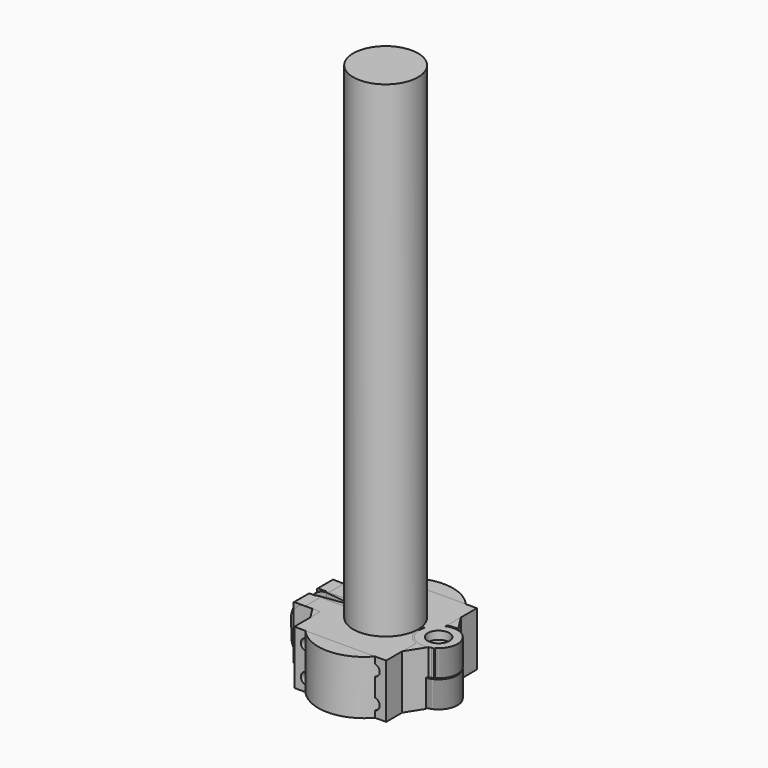
from build123d import *

# Parameters (mm, degrees)
CYLINDER010_R            = 7.6
CYLINDER010_DEPTH        = 10.2
CYLINDER007_R            = 4
CYLINDER007_DEPTH        = 20
CYLINDER006_R            = 1.8
CYLINDER006_DEPTH        = 20
CYLINDER001_R            = 4
CYLINDER001_DEPTH        = 20
CYLINDER_R               = 1.8
CYLINDER_DEPTH           = 20
PAD_DEPTH                = 20
PAD001_DEPTH             = 5
CYLINDER009_R            = 7
CYLINDER009_DEPTH        = 9.8
CYLINDER008_R            = 2.1
CYLINDER008_DEPTH        = 20
CYLINDER002_R            = 2.1
CYLINDER002_DEPTH        = 20
CYLINDER011_R            = 12
CYLINDER011_DEPTH        = 200
CYLINDER017_R            = 7.6
CYLINDER017_DEPTH        = 10.2
CYLINDER016_R            = 2.1
CYLINDER016_DEPTH        = 20
CYLINDER015_R            = 2.1
CYLINDER015_DEPTH        = 20
CYLINDER014_R            = 7
CYLINDER014_DEPTH        = 9.8
CYLINDER012_W            = 12
CYLINDER012_H            = 20
CYLINDER012_ANGLE        = 180
BOX_W                    = 100
BOX_H                    = 4
BOX_DEPTH                = 20
CYLINDER013_W            = 17
CYLINDER013_H            = 20
CYLINDER013_ANGLE        = 180
PAD002_DEPTH             = 9
CYLINDER020_R            = 7.6
CYLINDER020_DEPTH        = 10.2
CYLINDER022_R            = 4
CYLINDER022_DEPTH        = 20
CYLINDER021_R            = 1.8
CYLINDER021_DEPTH        = 20
CYLINDER019_R            = 4
CYLINDER019_DEPTH        = 20
CYLINDER018_R            = 1.8
CYLINDER018_DEPTH        = 20
CYLINDER026_R            = 7.6
CYLINDER026_DEPTH        = 10.2
CYLINDER027_R            = 2.1
CYLINDER027_DEPTH        = 20
CYLINDER023_R            = 2.1
CYLINDER023_DEPTH        = 20
CYLINDER028_R            = 7
CYLINDER028_DEPTH        = 9.8
CYLINDER024_W            = 12
CYLINDER024_H            = 20
CYLINDER024_ANGLE        = 180
CYLINDER029_R            = 2.1
CYLINDER029_DEPTH        = 8
ARRAY_X_COUNT            = 2
ARRAY_X_PITCH            = 25
ARRAY_Y_COUNT            = 2
ARRAY_Y_PITCH            = 11
ARRAY_PLACEMENT_ANGLE    = 90
BOX001_W                 = 100
BOX001_H                 = 4
BOX001_DEPTH             = 20
CYLINDER025_W            = 17
CYLINDER025_H            = 20
CYLINDER025_ANGLE        = 180
BOX002_W                 = 34
BOX002_H                 = 21
BOX002_DEPTH             = 20
PAD003_DEPTH             = 9
CYLINDER035_R            = 7.6
CYLINDER035_DEPTH        = 10.2
CYLINDER037_R            = 4
CYLINDER037_DEPTH        = 20
CYLINDER036_R            = 1.8
CYLINDER036_DEPTH        = 20
CYLINDER034_R            = 4
CYLINDER034_DEPTH        = 20
CYLINDER033_R            = 1.8
CYLINDER033_DEPTH        = 20
CYLINDER030_W            = 12
CYLINDER030_H            = 20
CYLINDER030_ANGLE        = 180
CYLINDER038_R            = 2.1
CYLINDER038_DEPTH        = 8
ARRAY001_X_COUNT         = 2
ARRAY001_X_PITCH         = 25
ARRAY001_Y_COUNT         = 2
ARRAY001_Y_PITCH         = 11
ARRAY001_PLACEMENT_ANGLE = 90
BOX003_W                 = 100
BOX003_H                 = 4
BOX003_DEPTH             = 20
CYLINDER031_W            = 17
CYLINDER031_H            = 20
CYLINDER031_ANGLE        = 180
BOX004_W                 = 34
BOX004_H                 = 21
BOX004_DEPTH             = 20
PAD004_DEPTH             = 9
CYLINDER032_R            = 7
CYLINDER032_DEPTH        = 9.8


with BuildPart() as horizontal_body_space:
    # Cylinder010 → Cylinder010 (new body)
    with BuildSketch(Plane(origin=(19.6, 0, 9.8), x_dir=(1, 0, 0), z_dir=(0, 0, 1))):
        Circle(CYLINDER010_R)
    extrude(amount=CYLINDER010_DEPTH)


with BuildPart() as part_mirroring002:
    # Part__Mirroring002: instance of horizontal body space
    add(horizontal_body_space.part.mirror(Plane(origin=(0, 0, 10), x_dir=(0, 1, 0), z_dir=(0, 0, 1))))


with BuildPart() as horizontal_bolt_head_hole:
    # Cylinder007 → Cylinder007 (new body)
    with BuildSketch(Plane.XY.offset(17)):
        Circle(CYLINDER007_R)
    extrude(amount=CYLINDER007_DEPTH)


with BuildPart() as horizontal_bolt_hole_fusion:
    # Cylinder006 → Cylinder006 (new body)
    with BuildSketch(Plane.XY):
        Circle(CYLINDER006_R)
    extrude(amount=CYLINDER006_DEPTH)

    # Fusion003: union horizontal bolt head hole
    add(horizontal_bolt_head_hole.part)


with BuildPart() as horizontal_bolt_hole_fusion_1:
    # Fusion003 placement: moved
    add(horizontal_bolt_hole_fusion.part.moved(Location((19.6, 0, 0))))


with BuildPart() as bolt_head_hole:
    # Cylinder001 → Cylinder001 (new body)
    with BuildSketch(Plane.XZ):
        Circle(CYLINDER001_R)
    extrude(amount=CYLINDER001_DEPTH)


with BuildPart() as fusion005:
    # Cylinder → Cylinder (new body)
    with BuildSketch(Plane.XZ.offset(-10)):
        Circle(CYLINDER_R)
    extrude(amount=CYLINDER_DEPTH)

    # Fusion: union bolt head hole
    add(bolt_head_hole.part)


with BuildPart() as fusion005_1:
    # Fusion placement: moved
    add(fusion005.part.moved(Location((-22, -5, 10))))

    # Fusion005: union Part__Mirroring002, horizontal bolt hole fusion
    add(part_mirroring002.part)
    add(horizontal_bolt_hole_fusion_1.part)


with BuildPart() as f_25_mm_attachment_body:
    # Sketch → Pad (new body)
    with BuildSketch(Plane.XY):
        with BuildLine():
            ThreePointArc((12, 0.0991288717), (0, 12.0991287584), (-12, 0.0991288717))
            Line((-23.1664914636, 1.4999812665), (-12, 0.0991288717))
            Line((-23.1664914636, 1.4999812665), (-23.1664914636, 6.4999999411))
            Line((-23.1664914636, 6.4999999411), (-21.5021965474, 6.4999999411))
            Line((-21.5021965474, 6.4999999411), (-16.3354691568, 14.6109278864))
            ThreePointArc((16.3354691568, 14.6109278864), (0, 26.9042892317), (-16.3354691568, 14.6109278864))
            Line((16.3354691568, 14.6109278864), (21.5021965474, 6.4999999411))
            Line((21.5021965474, 6.4999999411), (23.1664914636, 6.4999999411))
            Line((23.1664914636, 6.4999999411), (23.1664914636, 1.4999812665))
            Line((12, 0.0991288717), (23.1664914636, 1.4999812665))
        make_face()
    extrude(amount=PAD_DEPTH)

    # Sketch001 → Pad001 (join)
    with BuildSketch(Plane.XZ.offset(-1.5)):
        with BuildLine():
            Line((-13.241659036, 19.9999998322), (-23.331659036, 19.9994546363))
            ThreePointArc((-23.331659036, 19.9994546363), (-27.9361168106, 17.7657714559), (-29.8010034103, 13.0000008028))
            Line((-29.8010034103, 13.0000008028), (-29.700430835, 7.0000071698))
            ThreePointArc((-29.700430835, 7.0000071698), (-28.1980722924, 2.3110312669), (-23.8500523029, 0.0005554764))
            Line((-13.7600523034, -1.78e-07), (-23.8500523029, 0.0005554764))
            Line((-13.241659036, 19.9999998322), (-13.7600523034, -1.78e-07))
        make_face()
    extrude(amount=-PAD001_DEPTH)


with BuildPart() as part_mirroring:
    # Part__Mirroring: instance of 25 mm attachment body
    add(f_25_mm_attachment_body.part.mirror(Plane(origin=(0, 0, 0), x_dir=(1, 0, 0), z_dir=(0, 1, 0))))


with BuildPart() as horizontal_body:
    # Cylinder009 → Cylinder009 (new body)
    with BuildSketch(Plane(origin=(19.6, 0, 0), x_dir=(1, 0, 0), z_dir=(0, 0, 1))):
        Circle(CYLINDER009_R)
    extrude(amount=CYLINDER009_DEPTH)


with BuildPart() as f_35_mm_attachment_holed_cut:
    # Part__Mirroring001: instance of horizontal body
    add(horizontal_body.part.mirror(Plane(origin=(0, 0, 10), x_dir=(0, 1, 0), z_dir=(0, 0, 1))))

    # Fusion004: union Part__Mirroring
    add(part_mirroring.part)

    # Cut: cut Fusion005
    add(fusion005_1.part, mode=Mode.SUBTRACT)


with BuildPart() as horizontal_insert_hole:
    # Cylinder008 → Cylinder008 (new body)
    with BuildSketch(Plane(origin=(19.6, 0, 0), x_dir=(1, 0, 0), z_dir=(0, 0, 1))):
        Circle(CYLINDER008_R)
    extrude(amount=CYLINDER008_DEPTH)


with BuildPart() as f_25_mm_attachment_extract:
    # Cylinder002 → Cylinder002 (new body)
    with BuildSketch(Plane(origin=(-22, 20, 10), x_dir=(1, 0, 0), z_dir=(0, -1, 0))):
        Circle(CYLINDER002_R)
    extrude(amount=CYLINDER002_DEPTH)

    # Fusion007: union horizontal body space, horizontal insert hole
    add(horizontal_body_space.part)
    add(horizontal_insert_hole.part)


with BuildPart() as f_35_mm_attachment_inserted_cut:
    # Fusion006 base: copy of horizontal body
    add(horizontal_body.part)

    # Fusion006: union 25 mm attachment body
    add(f_25_mm_attachment_body.part)

    # Cut023015002: cut 25 mm attachment extract
    add(f_25_mm_attachment_extract.part, mode=Mode.SUBTRACT)


with BuildPart() as f_24mm_pipe_mockup:
    # Cylinder011 → Cylinder011 (new body)
    with BuildSketch(Plane.XY):
        Circle(CYLINDER011_R)
    extrude(amount=CYLINDER011_DEPTH)


with BuildPart() as horizontal_body_space001:
    # Cylinder017 → Cylinder017 (new body)
    with BuildSketch(Plane(origin=(19.6, 0, 9.8), x_dir=(1, 0, 0), z_dir=(0, 0, 1))):
        Circle(CYLINDER017_R)
    extrude(amount=CYLINDER017_DEPTH)


with BuildPart() as horizontal_insert_hole001:
    # Cylinder016 → Cylinder016 (new body)
    with BuildSketch(Plane(origin=(19.6, 0, 0), x_dir=(1, 0, 0), z_dir=(0, 0, 1))):
        Circle(CYLINDER016_R)
    extrude(amount=CYLINDER016_DEPTH)


with BuildPart() as f_35_mm_attachment_insert_extract:
    # Cylinder015 → Cylinder015 (new body)
    with BuildSketch(Plane(origin=(-22, 0, 10), x_dir=(1, 0, 0), z_dir=(0, -1, 0))):
        Circle(CYLINDER015_R)
    extrude(amount=CYLINDER015_DEPTH)

    # Fusion010: union horizontal body space001, horizontal insert hole001
    add(horizontal_body_space001.part)
    add(horizontal_insert_hole001.part)


with BuildPart() as horizontal_body001:
    # Cylinder014 → Cylinder014 (new body)
    with BuildSketch(Plane(origin=(19.6, 0, 0), x_dir=(1, 0, 0), z_dir=(0, 0, 1))):
        Circle(CYLINDER014_R)
    extrude(amount=CYLINDER014_DEPTH)


with BuildPart() as internal_cylinder:
    # Cylinder012 → Cylinder012 (revolve)
    with BuildSketch(Plane.XZ):
        with Locations((6, 10)):
            Rectangle(CYLINDER012_W, CYLINDER012_H)
    revolve(axis=Axis((0, 0, 0), (0, 0, 1)), revolution_arc=CYLINDER012_ANGLE)


with BuildPart() as f_24mm_pipe_attach_extract:
    # Box → Box (new body)
    with BuildSketch(Plane(origin=(-50, -2, 0), x_dir=(1, 0, 0), z_dir=(0, 0, 1))):
        with Locations((50, 2)):
            Rectangle(BOX_W, BOX_H)
    extrude(amount=BOX_DEPTH)

    # Fusion008: union internal_cylinder
    add(internal_cylinder.part)


with BuildPart() as external_cylinder:
    # Cylinder013 → Cylinder013 (revolve)
    with BuildSketch(Plane.XZ):
        with Locations((8.5, 10)):
            Rectangle(CYLINDER013_W, CYLINDER013_H)
    revolve(axis=Axis((0, 0, 0), (0, 0, 1)), revolution_arc=CYLINDER013_ANGLE)


with BuildPart() as f_24mm_pipe_attachment_cut:
    # Sketch002 → Pad002 (new body)
    with BuildSketch(Plane.XZ):
        with BuildLine():
            Line((-12, 0), (-12, 20))
            Line((-12, 20), (-26.5323267974, 20))
            ThreePointArc((-26.5323267974, 20), (-26.8630216903, 19.8630216903), (-27, 19.5323267974))
            Line((-27, 19.5323267974), (-27, 0.4676732026))
            ThreePointArc((-27, 0.4676732026), (-26.8630216903, 0.1369783097), (-26.5323267974, 0))
            Line((-12, 0), (-26.5323267974, 0))
        make_face()
    extrude(amount=-PAD002_DEPTH)

    # Fusion009: union external_cylinder
    add(external_cylinder.part)

    # Cut023015003: cut 24mm pipe attach extract
    add(f_24mm_pipe_attach_extract.part, mode=Mode.SUBTRACT)


with BuildPart() as f_35mm_pipe_attachment_insert_cut:
    # Part__Mirroring004: instance of 24mm pipe attachment cut
    add(f_24mm_pipe_attachment_cut.part.mirror(Plane(origin=(0, 0, 0), x_dir=(1, 0, 0), z_dir=(0, 1, 0))))

    # Fusion011: union horizontal body001
    add(horizontal_body001.part)

    # Cut023015004: cut 35 mm attachment insert extract
    add(f_35_mm_attachment_insert_extract.part, mode=Mode.SUBTRACT)


with BuildPart() as horizontal_body_space002:
    # Cylinder020 → Cylinder020 (new body)
    with BuildSketch(Plane(origin=(19.6, 0, 9.8), x_dir=(1, 0, 0), z_dir=(0, 0, 1))):
        Circle(CYLINDER020_R)
    extrude(amount=CYLINDER020_DEPTH)


with BuildPart() as part_mirroring006:
    # Part__Mirroring006: instance of horizontal body space002
    add(horizontal_body_space002.part.mirror(Plane(origin=(0, 0, 10), x_dir=(0, 1, 0), z_dir=(0, 0, 1))))


with BuildPart() as bolt_head_hole001:
    # Cylinder022 → Cylinder022 (new body)
    with BuildSketch(Plane.XZ):
        Circle(CYLINDER022_R)
    extrude(amount=CYLINDER022_DEPTH)


with BuildPart() as bolt_hole_fusion001:
    # Cylinder021 → Cylinder021 (new body)
    with BuildSketch(Plane.XZ.offset(12)):
        Circle(CYLINDER021_R)
    extrude(amount=CYLINDER021_DEPTH)

    # Fusion015: union bolt head hole001
    add(bolt_head_hole001.part)


with BuildPart() as bolt_hole_fusion001_1:
    # Fusion015 placement: moved
    add(bolt_hole_fusion001.part.moved(Location((-22, 26, 10))))


with BuildPart() as horizontal_bolt_head_hole001:
    # Cylinder019 → Cylinder019 (new body)
    with BuildSketch(Plane.XY.offset(17)):
        Circle(CYLINDER019_R)
    extrude(amount=CYLINDER019_DEPTH)


with BuildPart() as f_35_mm_attachment_bolt_extract:
    # Cylinder018 → Cylinder018 (new body)
    with BuildSketch(Plane.XY):
        Circle(CYLINDER018_R)
    extrude(amount=CYLINDER018_DEPTH)

    # Fusion013: union horizontal bolt head hole001
    add(horizontal_bolt_head_hole001.part)


with BuildPart() as f_35_mm_attachment_bolt_extract_1:
    # Fusion013 placement: moved
    add(f_35_mm_attachment_bolt_extract.part.moved(Location((19.6, 0, 0))))

    # Fusion014: union Part__Mirroring006, bolt hole fusion001
    add(part_mirroring006.part)
    add(bolt_hole_fusion001_1.part)


with BuildPart() as f_35mm_pipe_attachment_bolt_cut:
    # Part__Mirroring005: instance of horizontal body001
    add(horizontal_body001.part.mirror(Plane(origin=(0, 0, 10), x_dir=(0, 1, 0), z_dir=(0, 0, 1))))

    # Fusion012: union 24mm pipe attachment cut
    add(f_24mm_pipe_attachment_cut.part)

    # Cut023015005: cut 35 mm attachment bolt extract
    add(f_35_mm_attachment_bolt_extract_1.part, mode=Mode.SUBTRACT)


with BuildPart() as horizontal_body_space003:
    # Cylinder026 → Cylinder026 (new body)
    with BuildSketch(Plane(origin=(19.6, 0, 9.8), x_dir=(1, 0, 0), z_dir=(0, 0, 1))):
        Circle(CYLINDER026_R)
    extrude(amount=CYLINDER026_DEPTH)


with BuildPart() as horizontal_insert_hole002:
    # Cylinder027 → Cylinder027 (new body)
    with BuildSketch(Plane(origin=(19.6, 0, 0), x_dir=(1, 0, 0), z_dir=(0, 0, 1))):
        Circle(CYLINDER027_R)
    extrude(amount=CYLINDER027_DEPTH)


with BuildPart() as f_24_mm_attachment_insert_extract001:
    # Cylinder023 → Cylinder023 (new body)
    with BuildSketch(Plane(origin=(-22, 0, 10), x_dir=(1, 0, 0), z_dir=(0, -1, 0))):
        Circle(CYLINDER023_R)
    extrude(amount=CYLINDER023_DEPTH)

    # Fusion018: union horizontal body space003, horizontal insert hole002
    add(horizontal_body_space003.part)
    add(horizontal_insert_hole002.part)


with BuildPart() as horizontal_body002:
    # Cylinder028 → Cylinder028 (new body)
    with BuildSketch(Plane(origin=(19.6, 0, 0), x_dir=(1, 0, 0), z_dir=(0, 0, 1))):
        Circle(CYLINDER028_R)
    extrude(amount=CYLINDER028_DEPTH)


with BuildPart() as internal_cylinder001:
    # Cylinder024 → Cylinder024 (revolve)
    with BuildSketch(Plane.XZ):
        with Locations((6, 10)):
            Rectangle(CYLINDER024_W, CYLINDER024_H)
    revolve(axis=Axis((0, 0, 0), (0, 0, 1)), revolution_arc=CYLINDER024_ANGLE)


with BuildPart() as insert_size_hole_array:
    # Cylinder029 → Cylinder029 (new body)
    with BuildSketch(Plane.XY):
        Circle(CYLINDER029_R)
    extrude(amount=CYLINDER029_DEPTH)

    # Array X: insert size hole array ×2


with BuildPart() as insert_size_hole_array_1:
    add(insert_size_hole_array.part)
    with Locations(*[(i * ARRAY_X_PITCH, 0, 0) for i in range(1, ARRAY_X_COUNT)]):
        add(insert_size_hole_array.part)

    # Array Y: insert size hole array ×2


with BuildPart() as insert_size_hole_array_2:
    add(insert_size_hole_array_1.part)
    with Locations(*[(0, i * ARRAY_Y_PITCH, 0) for i in range(1, ARRAY_Y_COUNT)]):
        add(insert_size_hole_array_1.part)


with BuildPart() as insert_size_hole_array_3:
    # Array placement: moved
    add(insert_size_hole_array_2.part.moved(Location((-12.5, 21, 4.5))).rotate(Axis((-12.5, 21, 4.5), (1, 0, 0)), ARRAY_PLACEMENT_ANGLE))


with BuildPart() as f_24mm_pipe_attach_extract001:
    # Box001 → Box001 (new body)
    with BuildSketch(Plane(origin=(-50, -2, 0), x_dir=(1, 0, 0), z_dir=(0, 0, 1))):
        with Locations((50, 2)):
            Rectangle(BOX001_W, BOX001_H)
    extrude(amount=BOX001_DEPTH)

    # Fusion016: union internal_cylinder001, insert size hole array
    add(internal_cylinder001.part)
    add(insert_size_hole_array_3.part)


with BuildPart() as external_cylinder001:
    # Cylinder025 → Cylinder025 (revolve)
    with BuildSketch(Plane.XZ):
        with Locations((8.5, 10)):
            Rectangle(CYLINDER025_W, CYLINDER025_H)
    revolve(axis=Axis((0, 0, 0), (0, 0, 1)), revolution_arc=CYLINDER025_ANGLE)


with BuildPart() as flat_attachment_cube:
    # Box002 → Box002 (new body)
    with BuildSketch(Plane(origin=(-17, 0, 0), x_dir=(1, 0, 0), z_dir=(0, 0, 1))):
        with Locations((17, 10.5)):
            Rectangle(BOX002_W, BOX002_H)
    extrude(amount=BOX002_DEPTH)


with BuildPart() as f_24mm_pipe_attachment_cut001:
    # Sketch003 → Pad003 (new body)
    with BuildSketch(Plane.XZ):
        with BuildLine():
            Line((-12, 0), (-12, 20))
            Line((-12, 20), (-22.5970421339, 20))
            ThreePointArc((-22.5970421339, 20), (-25.7104034983, 18.7104034983), (-27, 15.5970421339))
            Line((-27, 15.5970421339), (-27, 4.4029578661))
            ThreePointArc((-27, 4.4029578661), (-25.7104034983, 1.2895965017), (-22.5970421339, 0))
            Line((-12, 0), (-22.5970421339, 0))
        make_face()
    extrude(amount=-PAD003_DEPTH)

    # Fusion017: union external_cylinder001, flat attachment cube
    add(external_cylinder001.part)
    add(flat_attachment_cube.part)

    # Cut023015007: cut 24mm pipe attach extract001
    add(f_24mm_pipe_attach_extract001.part, mode=Mode.SUBTRACT)


with BuildPart() as f_24mm_pipe_attachment_insert_cut001:
    # Part__Mirroring007: instance of 24mm pipe attachment cut001
    add(f_24mm_pipe_attachment_cut001.part.mirror(Plane(origin=(0, 0, 0), x_dir=(1, 0, 0), z_dir=(0, 1, 0))))

    # Fusion019: union horizontal body002
    add(horizontal_body002.part)

    # Cut023015006: cut 24 mm attachment insert extract001
    add(f_24_mm_attachment_insert_extract001.part, mode=Mode.SUBTRACT)


with BuildPart() as horizontal_body_space004:
    # Cylinder035 → Cylinder035 (new body)
    with BuildSketch(Plane(origin=(19.6, 0, 9.8), x_dir=(1, 0, 0), z_dir=(0, 0, 1))):
        Circle(CYLINDER035_R)
    extrude(amount=CYLINDER035_DEPTH)


with BuildPart() as part_mirroring009:
    # Part__Mirroring009: instance of horizontal body space004
    add(horizontal_body_space004.part.mirror(Plane(origin=(0, 0, 10), x_dir=(0, 1, 0), z_dir=(0, 0, 1))))


with BuildPart() as bolt_head_hole002:
    # Cylinder037 → Cylinder037 (new body)
    with BuildSketch(Plane.XZ):
        Circle(CYLINDER037_R)
    extrude(amount=CYLINDER037_DEPTH)


with BuildPart() as bolt_hole_fusion002:
    # Cylinder036 → Cylinder036 (new body)
    with BuildSketch(Plane.XZ.offset(12)):
        Circle(CYLINDER036_R)
    extrude(amount=CYLINDER036_DEPTH)

    # Fusion025: union bolt head hole002
    add(bolt_head_hole002.part)


with BuildPart() as bolt_hole_fusion002_1:
    # Fusion025 placement: moved
    add(bolt_hole_fusion002.part.moved(Location((-22, 26, 10))))


with BuildPart() as horizontal_bolt_head_hole002:
    # Cylinder034 → Cylinder034 (new body)
    with BuildSketch(Plane.XY.offset(17)):
        Circle(CYLINDER034_R)
    extrude(amount=CYLINDER034_DEPTH)


with BuildPart() as f_24_mm_attachment_bolt_extract001:
    # Cylinder033 → Cylinder033 (new body)
    with BuildSketch(Plane.XY):
        Circle(CYLINDER033_R)
    extrude(amount=CYLINDER033_DEPTH)

    # Fusion023: union horizontal bolt head hole002
    add(horizontal_bolt_head_hole002.part)


with BuildPart() as f_24_mm_attachment_bolt_extract001_1:
    # Fusion023 placement: moved
    add(f_24_mm_attachment_bolt_extract001.part.moved(Location((19.6, 0, 0))))

    # Fusion024: union Part__Mirroring009, bolt hole fusion002
    add(part_mirroring009.part)
    add(bolt_hole_fusion002_1.part)


with BuildPart() as internal_cylinder002:
    # Cylinder030 → Cylinder030 (revolve)
    with BuildSketch(Plane.XZ):
        with Locations((6, 10)):
            Rectangle(CYLINDER030_W, CYLINDER030_H)
    revolve(axis=Axis((0, 0, 0), (0, 0, 1)), revolution_arc=CYLINDER030_ANGLE)


with BuildPart() as insert_size_hole_array001:
    # Cylinder038 → Cylinder038 (new body)
    with BuildSketch(Plane.XY):
        Circle(CYLINDER038_R)
    extrude(amount=CYLINDER038_DEPTH)

    # Array001 X: insert size hole array001 ×2


with BuildPart() as insert_size_hole_array001_1:
    add(insert_size_hole_array001.part)
    with Locations(*[(i * ARRAY001_X_PITCH, 0, 0) for i in range(1, ARRAY001_X_COUNT)]):
        add(insert_size_hole_array001.part)

    # Array001 Y: insert size hole array001 ×2


with BuildPart() as insert_size_hole_array001_2:
    add(insert_size_hole_array001_1.part)
    with Locations(*[(0, i * ARRAY001_Y_PITCH, 0) for i in range(1, ARRAY001_Y_COUNT)]):
        add(insert_size_hole_array001_1.part)


with BuildPart() as insert_size_hole_array001_3:
    # Array001 placement: moved
    add(insert_size_hole_array001_2.part.moved(Location((-12.5, 21, 4.5))).rotate(Axis((-12.5, 21, 4.5), (1, 0, 0)), ARRAY001_PLACEMENT_ANGLE))


with BuildPart() as f_35mm_pipe_attach_extract002:
    # Box003 → Box003 (new body)
    with BuildSketch(Plane(origin=(-50, -2, 0), x_dir=(1, 0, 0), z_dir=(0, 0, 1))):
        with Locations((50, 2)):
            Rectangle(BOX003_W, BOX003_H)
    extrude(amount=BOX003_DEPTH)

    # Fusion020: union internal_cylinder002, insert size hole array001
    add(internal_cylinder002.part)
    add(insert_size_hole_array001_3.part)


with BuildPart() as external_cylinder002:
    # Cylinder031 → Cylinder031 (revolve)
    with BuildSketch(Plane.XZ):
        with Locations((8.5, 10)):
            Rectangle(CYLINDER031_W, CYLINDER031_H)
    revolve(axis=Axis((0, 0, 0), (0, 0, 1)), revolution_arc=CYLINDER031_ANGLE)


with BuildPart() as flat_attachment_cube001:
    # Box004 → Box004 (new body)
    with BuildSketch(Plane(origin=(-17, 0, 0), x_dir=(1, 0, 0), z_dir=(0, 0, 1))):
        with Locations((17, 10.5)):
            Rectangle(BOX004_W, BOX004_H)
    extrude(amount=BOX004_DEPTH)


with BuildPart() as f_24mm_pipe_attachment_cut002:
    # Sketch004 → Pad004 (new body)
    with BuildSketch(Plane.XZ):
        with BuildLine():
            Line((-12, 0), (-12, 20))
            Line((-12, 20), (-22.5970421339, 20))
            ThreePointArc((-22.5970421339, 20), (-25.7104034983, 18.7104034983), (-27, 15.5970421339))
            Line((-27, 15.5970421339), (-27, 4.4029578661))
            ThreePointArc((-27, 4.4029578661), (-25.7104034983, 1.2895965017), (-22.5970421339, 0))
            Line((-12, 0), (-22.5970421339, 0))
        make_face()
    extrude(amount=-PAD004_DEPTH)

    # Fusion021: union external_cylinder002, flat attachment cube001
    add(external_cylinder002.part)
    add(flat_attachment_cube001.part)

    # Cut023015008: cut 35mm pipe attach extract002
    add(f_35mm_pipe_attach_extract002.part, mode=Mode.SUBTRACT)


with BuildPart() as horizontal_body003:
    # Cylinder032 → Cylinder032 (new body)
    with BuildSketch(Plane(origin=(19.6, 0, 0), x_dir=(1, 0, 0), z_dir=(0, 0, 1))):
        Circle(CYLINDER032_R)
    extrude(amount=CYLINDER032_DEPTH)


with BuildPart() as f_24mm_pipe_attachment_bolt_cut001:
    # Part__Mirroring008: instance of horizontal body003
    add(horizontal_body003.part.mirror(Plane(origin=(0, 0, 10), x_dir=(0, 1, 0), z_dir=(0, 0, 1))))

    # Fusion022: union 24mm pipe attachment cut002
    add(f_24mm_pipe_attachment_cut002.part)

    # Cut023015009: cut 24 mm attachment bolt extract001
    add(f_24_mm_attachment_bolt_extract001_1.part, mode=Mode.SUBTRACT)


solid = Compound([f_35_mm_attachment_holed_cut.part, f_35_mm_attachment_inserted_cut.part, f_24mm_pipe_mockup.part, f_35mm_pipe_attachment_insert_cut.part, f_35mm_pipe_attachment_bolt_cut.part, f_24mm_pipe_attachment_insert_cut001.part, f_24mm_pipe_attachment_bolt_cut001.part])
